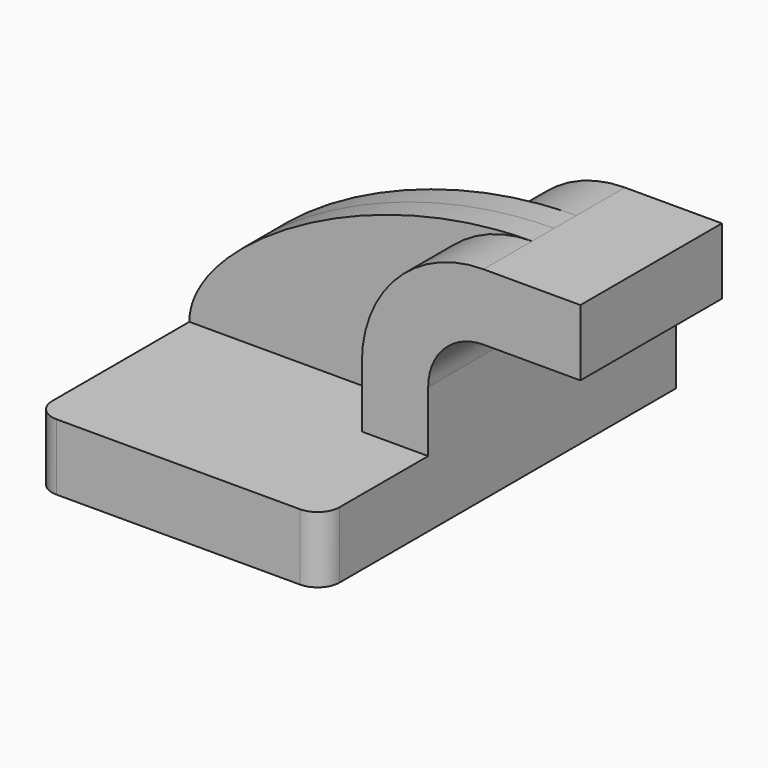
from build123d import *

# Parameters (mm, degrees)
F1_DEPTH = 63.5
F0_W     = 24.663166
F0_H     = 19.05
F2_DEPTH = 25.4
F3_DEPTH = 7.9375
F4_R     = 6.35


with BuildPart() as f1:
    # F0 (on Front) → F1 (new body, symmetric)
    with BuildSketch(Plane.XZ):
        Polygon((-41.275, 9.525), (-41.275, -9.525), (41.275, -9.525), (41.275, 9.525), (22.225, 9.525), align=None)
    extrude(amount=F1_DEPTH, both=True)

    # F0 (on Front) → F2 (join, symmetric)
    with BuildSketch(Plane.XZ):
        with BuildLine():
            Line((22.225, 9.525), (41.275, 9.525))
            Line((41.275, 9.525), (41.275, 27.0002))
            ThreePointArc((41.275, 27.0002), (45.92468, 38.22552), (57.15, 42.8752))
            Line((57.15, 42.8752), (60.325, 42.8752))
            Line((60.325, 42.8752), (60.325, 61.9252))
            Line((60.325, 61.9252), (57.15, 61.9252))
            ThreePointArc((57.15, 61.9252), (32.454296, 51.695904), (22.225, 27.0002))
            Line((22.225, 27.0002), (22.225, 9.525))
        make_face()
        with Locations((72.656583, 52.4002)):
            Rectangle(F0_W, F0_H)
    extrude(amount=F2_DEPTH, both=True)

    # F0 (on Front) → F3 (join, symmetric)
    with BuildSketch(Plane.XZ):
        with BuildLine():
            add(Edge.make_bspline(
                [(-41.275, 9.525), (-41.275, 30.556278), (7.645971, 61.9252), (57.15, 61.9252)],
                knots=[0, 0, 0, 0, 111.504536, 111.504536, 111.504536, 111.504536], degree=3))
            Line((-41.275, 9.525), (22.225, 9.525))
            Line((22.225, 9.525), (22.225, 27.0002))
            ThreePointArc((22.225, 27.0002), (32.454296, 51.695904), (57.15, 61.9252))
        make_face()
    extrude(amount=F3_DEPTH, both=True)

    # F4
    f4_edges = [f1.edges().sort_by_distance(p)[0] for p in [
        (-41.275, -63.5, 0),
        (41.275, -63.5, 0),
    ]]
    fillet(f4_edges, radius=F4_R)


solid = f1.part
